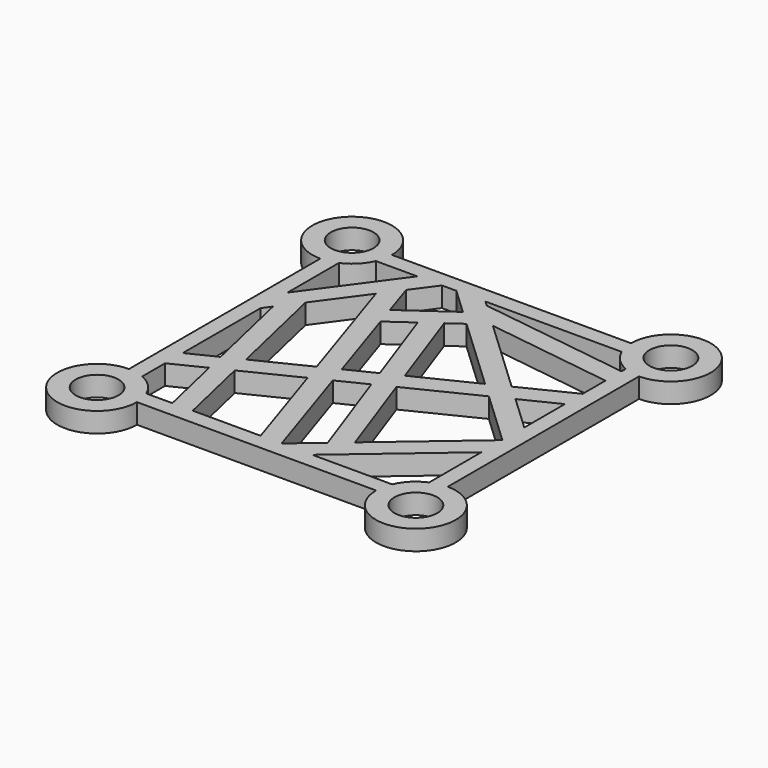
from build123d import *

# Parameters (mm, degrees)
F0_R     = 2.15
F1_DEPTH = 2


with BuildPart() as f1:
    # F0 (on Top) → F1 (new body)
    with BuildSketch(Plane.XY):
        with BuildLine():
            ThreePointArc((16, 12), (18.828427, 18.828427), (12, 16))
            Line((12, 16), (-12, 16))
            ThreePointArc((-12, 16), (-18.828427, 18.828427), (-16, 12))
            Line((-16, 12), (-16, -12))
            ThreePointArc((-16, -12), (-18.828427, -18.828427), (-12, -16))
            Line((-12, -16), (12, -16))
            ThreePointArc((12, -16), (18.828427, -18.828427), (16, -12))
            Line((16, -12), (16, 12))
        make_face()
        with Locations((-16, -16)):
            Circle(F0_R, mode=Mode.SUBTRACT)
        with BuildLine():
            Line((-9.729589, -14.4), (-12.333939, -14.4))
            ThreePointArc((-12.333939, -14.4), (-13.171573, -13.171573), (-14.4, -12.333939))
            Line((-14.4, -12.333939), (-14.4, -9.476337))
            Line((-14.4, -9.476337), (-11.22191, -7.912738))
            Line((-11.22191, -7.912738), (-9.729589, -14.4))
        make_face(mode=Mode.SUBTRACT)
        Polygon((-14.4, 2.514248), (-13.807063, 3.325173), (-11.682524, -5.910405), (-14.4, -7.247384), align=None, mode=Mode.SUBTRACT)
        Polygon((-4.130008, -4.423571), (-0.864528, -14.4), (-7.677354, -14.4), (-9.378326, -7.005708), align=None, mode=Mode.SUBTRACT)
        with BuildLine():
            Line((14.4, -5.776237), (14.4, -12.333939))
            ThreePointArc((14.4, -12.333939), (13.171573, -13.171573), (12.333939, -14.4))
            Line((12.333939, -14.4), (4.316942, -14.4))
            Line((4.316942, -14.4), (14.4, -5.776237))
        make_face(mode=Mode.SUBTRACT)
        with Locations((16, -16)):
            Circle(F0_R, mode=Mode.SUBTRACT)
        Polygon((3.983911, -12.053109), (1.239884, -14.4), (-2.317482, -3.531821), (0.46577, -2.16248), align=None, mode=Mode.SUBTRACT)
        Polygon((8.927958, 2.000858), (14.4, -3.144515), (5.611514, -10.661065), (2.272367, -1.273647), align=None, mode=Mode.SUBTRACT)
        Polygon((-9.83894, -5.003374), (-12.245966, 5.460196), (-8.874441, 10.071236), (-4.758393, -2.50378), align=None, mode=Mode.SUBTRACT)
        Polygon((-0.208992, -0.265506), (-2.945867, -1.61203), (-5.639504, 6.617349), (-3.257059, 8.303594), align=None, mode=Mode.SUBTRACT)
        with BuildLine():
            Line((-14.4, 5.902725), (-14.4, 12.333939))
            ThreePointArc((-14.4, 12.333939), (-13.171573, 13.171573), (-12.333939, 14.4))
            Line((-12.333939, 14.4), (-8.186917, 14.4))
            Line((-8.186917, 14.4), (-14.4, 5.902725))
        make_face(mode=Mode.SUBTRACT)
        with Locations((-16, 16)):
            Circle(F0_R, mode=Mode.SUBTRACT)
        Polygon((-6.290668, 8.606735), (-7.420772, 12.059335), (-5.709311, 14.4), (-4.258381, 14.4), (-1.616002, 11.915365), align=None, mode=Mode.SUBTRACT)
        Polygon((-0.129263, 10.517382), (7.371748, 3.464166), (1.597605, 0.623327), (-1.56124, 9.503858), align=None, mode=Mode.SUBTRACT)
        Polygon((9.288462, 4.407176), (1.688386, 11.553542), (14.4, 9.785344), (14.4, 6.922017), align=None, mode=Mode.SUBTRACT)
        Polygon((14.4, 4.693065), (14.4, -0.399215), (10.844672, 2.943868), align=None, mode=Mode.SUBTRACT)
        with BuildLine():
            Line((-1.338787, 14.4), (12.333939, 14.4))
            ThreePointArc((12.333939, 14.4), (13.171573, 13.171573), (14.4, 12.333939))
            Line((14.4, 12.333939), (14.4, 11.804601))
            Line((14.4, 11.804601), (-0.8319, 13.923373))
            Line((-0.8319, 13.923373), (-1.338787, 14.4))
        make_face(mode=Mode.SUBTRACT)
        with Locations((16, 16)):
            Circle(F0_R, mode=Mode.SUBTRACT)
    extrude(amount=F1_DEPTH)


solid = f1.part
